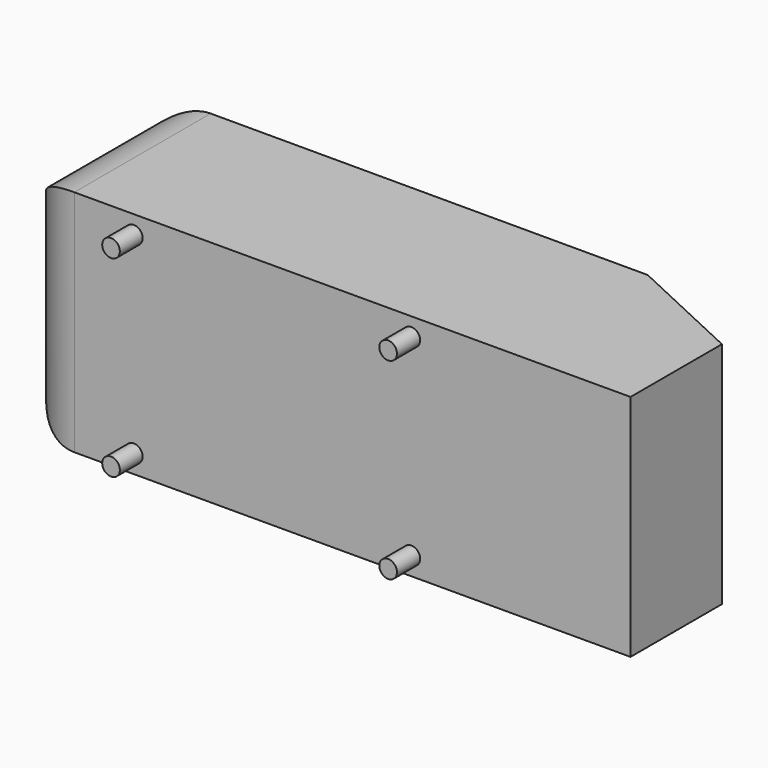
from build123d import *

# Parameters (mm, degrees)
F1_DEPTH = 194.5
F2_DEPTH = 194.5
F3_R     = 15
F5_R     = 100


with BuildPart() as f1:
    # F0 (on Top) → F1 (new body)
    with BuildSketch(Plane.XY):
        Polygon((-1043.9980842894, 48), (0, 50), (0, 244.1787458936), (-201.2003287221, 338), (-1043.9980842894, 338), (-1043.9980842894, 50), align=None)
    extrude(amount=F1_DEPTH)

    # F0 (on Top) → F2 (join)
    with BuildSketch(Plane.XY):
        Polygon((-1043.9980842894, 48), (0, 50), (0, 244.1787458936), (-201.2003287221, 338), (-1043.9980842894, 338), (-1043.9980842894, 50), align=None)
    extrude(amount=-F2_DEPTH)

    # F3 (on Front) → F4 (join, up to the next surface of F1)
    with BuildSketch(Plane.XZ):
        with Locations((-843, 163.5)):
            Circle(F3_R)
        with Locations((-843, -163.5)):
            Circle(F3_R)
        with Locations((-372, 163.5)):
            Circle(F3_R)
        with Locations((-372, -163.5)):
            Circle(F3_R)
    extrude(until=Until.NEXT, dir=(0, 1, 0))

    # F5
    f5_edges = [f1.edges().sort_by_distance(p)[0] for p in [
        (-1043.998084, 338, 0),
        (-1043.998084, 193, 194.5),
        (-1043.998084, 48, 0),
        (-1043.998084, 193, -194.5),
    ]]
    fillet(f5_edges, radius=F5_R)


solid = f1.part
